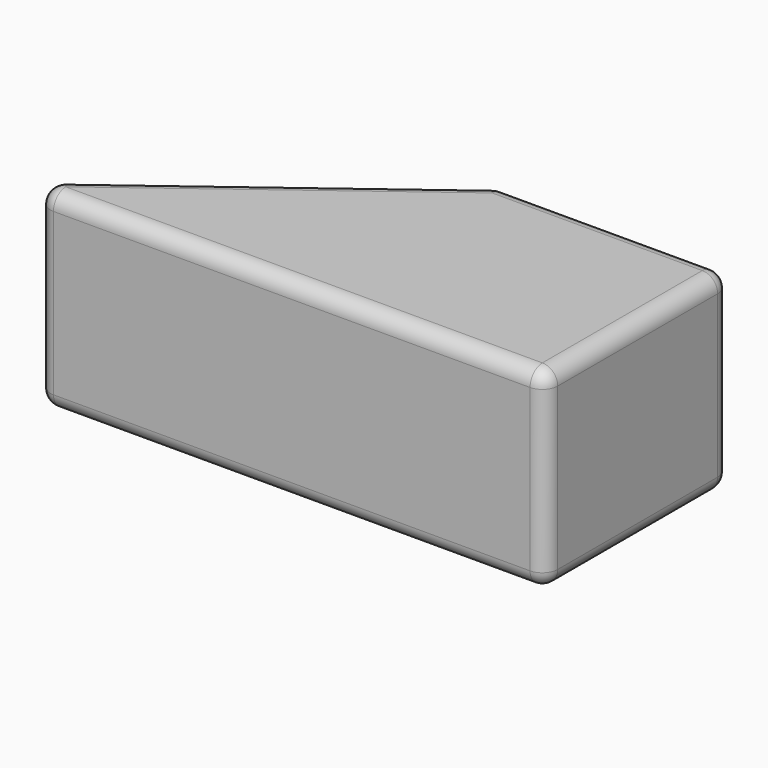
from build123d import *

# Parameters (mm, degrees)
F1_DEPTH = 25
F2_R     = 2


with BuildPart() as f1:
    # F0 (on Top) → F1 (new body)
    with BuildSketch(Plane.XY):
        Polygon((6.565958, 37.105379), (-23.434042, 37.105379), (-63.434042, 7.105379), (-23.434042, 7.105379), (6.565958, 7.105379), align=None)
    extrude(amount=F1_DEPTH)

    # F2
    f2_edges = [f1.edges().sort_by_distance(p)[0] for p in [
        (-28.434042, 7.105379, 25),
        (6.565958, 22.105379, 25),
        (-8.434042, 37.105379, 25),
        (-43.434042, 22.105379, 25),
        (6.565958, 7.105379, 12.5),
        (-28.434042, 7.105379, 0),
        (-63.434042, 7.105379, 12.5),
        (-23.434042, 37.105379, 12.5),
        (-43.434042, 22.105379, 0),
        (6.565958, 37.105379, 12.5),
        (-8.434042, 37.105379, 0),
        (6.565958, 22.105379, 0),
    ]]
    fillet(f2_edges, radius=F2_R)


solid = f1.part
